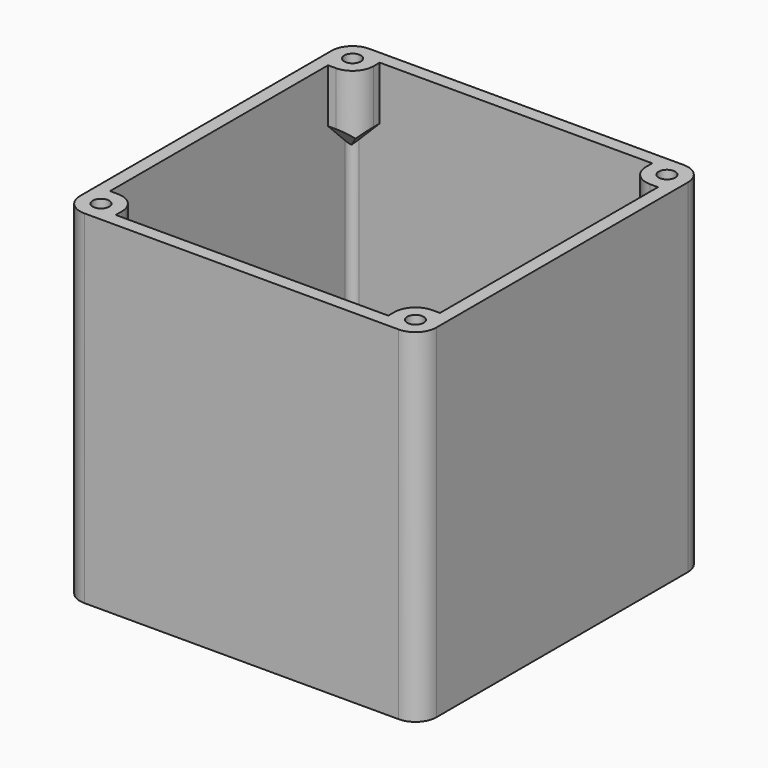
from build123d import *

# Parameters (mm, degrees)
CYLINDER001_R     = 2.4
CYLINDER001_DEPTH = 10
CYLINDER004_R     = 1
CYLINDER004_DEPTH = 5
CYLINDER005_R     = 1
CYLINDER005_DEPTH = 5
CYLINDER003_R     = 1
CYLINDER003_DEPTH = 5
CYLINDER002_R     = 1
CYLINDER002_DEPTH = 5
CYLINDER_R        = 19.4
CYLINDER_DEPTH    = 1.6
BOX004_W          = 5.08
BOX004_H          = 5.08
BOX004_DEPTH      = 10
CHAMFER_SIZE      = 3.5
FILLET002_R       = 2.54
BOX005_W          = 5.08
BOX005_H          = 5.08
BOX005_DEPTH      = 10
CHAMFER001_SIZE   = 3.5
FILLET003_R       = 2.54
BOX003_W          = 5.08
BOX003_H          = 5.08
BOX003_DEPTH      = 10
CHAMFER002_SIZE   = 3.5
FILLET004_R       = 2.54
BOX002_W          = 5.08
BOX002_H          = 5.08
BOX002_DEPTH      = 10
CHAMFER003_SIZE   = 3.5
FILLET001_R       = 2.54
BOX001_W          = 40
BOX001_H          = 40
BOX001_DEPTH      = 41.6
BOX_W             = 43.2
BOX_H             = 43.2
BOX_DEPTH         = 41.6
FILLET_R          = 0.94
FILLET005_R       = 2.54


with BuildPart() as ir:
    # Cylinder001 → Cylinder001 (new body)
    with BuildSketch(Plane(origin=(5.6, 5.6, 0), x_dir=(1, 0, 0), z_dir=(0, 0, 1))):
        Circle(CYLINDER001_R)
    extrude(amount=CYLINDER001_DEPTH)


with BuildPart() as zylinder002:
    # Cylinder004 → Cylinder004 (new body)
    with BuildSketch(Plane(origin=(2.54, 40.66, 36.6), x_dir=(1, 0, 0), z_dir=(0, 0, 1))):
        Circle(CYLINDER004_R)
    extrude(amount=CYLINDER004_DEPTH)


with BuildPart() as zylinder003:
    # Cylinder005 → Cylinder005 (new body)
    with BuildSketch(Plane(origin=(40.66, 40.66, 36.6), x_dir=(1, 0, 0), z_dir=(0, 0, 1))):
        Circle(CYLINDER005_R)
    extrude(amount=CYLINDER005_DEPTH)


with BuildPart() as zylinder001:
    # Cylinder003 → Cylinder003 (new body)
    with BuildSketch(Plane(origin=(40.66, 2.54, 36.6), x_dir=(1, 0, 0), z_dir=(0, 0, 1))):
        Circle(CYLINDER003_R)
    extrude(amount=CYLINDER003_DEPTH)


with BuildPart() as screws:
    # Cylinder002 → Cylinder002 (new body)
    with BuildSketch(Plane(origin=(2.54, 2.54, 36.6), x_dir=(1, 0, 0), z_dir=(0, 0, 1))):
        Circle(CYLINDER002_R)
    extrude(amount=CYLINDER002_DEPTH)

    # Fusion002: union Zylinder002, Zylinder003, Zylinder001
    add(zylinder002.part)
    add(zylinder003.part)
    add(zylinder001.part)


with BuildPart() as speaker:
    # Cylinder → Cylinder (new body)
    with BuildSketch(Plane(origin=(21.6, 21.6, 0), x_dir=(1, 0, 0), z_dir=(0, 0, 1))):
        Circle(CYLINDER_R)
    extrude(amount=CYLINDER_DEPTH)


with BuildPart() as fillet002:
    # Box004 → Box004 (new body)
    with BuildSketch(Plane(origin=(0, 38.12, 31.6), x_dir=(1, 0, 0), z_dir=(0, 0, 1))):
        with Locations((2.54, 2.54)):
            Rectangle(BOX004_W, BOX004_H)
    extrude(amount=BOX004_DEPTH)

    # Chamfer
    chamfer_edges = [fillet002.edges().sort_by_distance(p)[0] for p in [
        (5.08, 40.66, 31.6),
        (2.54, 38.12, 31.6),
    ]]
    chamfer(chamfer_edges, length=CHAMFER_SIZE)

    # Fillet002
    fillet002_edges = [fillet002.edges().sort_by_distance(p)[0] for p in [
        (5.08, 38.12, 38.35),
    ]]
    fillet(fillet002_edges, radius=FILLET002_R)


with BuildPart() as fillet003:
    # Box005 → Box005 (new body)
    with BuildSketch(Plane(origin=(38.12, 38.12, 31.6), x_dir=(1, 0, 0), z_dir=(0, 0, 1))):
        with Locations((2.54, 2.54)):
            Rectangle(BOX005_W, BOX005_H)
    extrude(amount=BOX005_DEPTH)

    # Chamfer001
    chamfer001_edges = [fillet003.edges().sort_by_distance(p)[0] for p in [
        (38.12, 40.66, 31.6),
        (40.66, 38.12, 31.6),
    ]]
    chamfer(chamfer001_edges, length=CHAMFER001_SIZE)

    # Fillet003
    fillet003_edges = [fillet003.edges().sort_by_distance(p)[0] for p in [
        (38.12, 38.12, 38.35),
    ]]
    fillet(fillet003_edges, radius=FILLET003_R)


with BuildPart() as fillet004:
    # Box003 → Box003 (new body)
    with BuildSketch(Plane(origin=(38.12, 0, 31.6), x_dir=(1, 0, 0), z_dir=(0, 0, 1))):
        with Locations((2.54, 2.54)):
            Rectangle(BOX003_W, BOX003_H)
    extrude(amount=BOX003_DEPTH)

    # Chamfer002
    chamfer002_edges = [fillet004.edges().sort_by_distance(p)[0] for p in [
        (38.12, 2.54, 31.6),
        (40.66, 5.08, 31.6),
    ]]
    chamfer(chamfer002_edges, length=CHAMFER002_SIZE)

    # Fillet004
    fillet004_edges = [fillet004.edges().sort_by_distance(p)[0] for p in [
        (38.12, 5.08, 38.35),
    ]]
    fillet(fillet004_edges, radius=FILLET004_R)


with BuildPart() as holder:
    # Box002 → Box002 (new body)
    with BuildSketch(Plane.XY.offset(31.6)):
        with Locations((2.54, 2.54)):
            Rectangle(BOX002_W, BOX002_H)
    extrude(amount=BOX002_DEPTH)

    # Chamfer003
    chamfer003_edges = [holder.edges().sort_by_distance(p)[0] for p in [
        (5.08, 2.54, 31.6),
        (2.54, 5.08, 31.6),
    ]]
    chamfer(chamfer003_edges, length=CHAMFER003_SIZE)

    # Fillet001
    fillet001_edges = [holder.edges().sort_by_distance(p)[0] for p in [
        (5.08, 5.08, 38.35),
    ]]
    fillet(fillet001_edges, radius=FILLET001_R)

    # Fusion: union Fillet002, Fillet003, Fillet004
    add(fillet002.part)
    add(fillet003.part)
    add(fillet004.part)


with BuildPart() as obj1:
    # Box001 → Box001 (new body)
    with BuildSketch(Plane(origin=(1.6, 1.6, 1.6), x_dir=(1, 0, 0), z_dir=(0, 0, 1))):
        with Locations((20, 20)):
            Rectangle(BOX001_W, BOX001_H)
    extrude(amount=BOX001_DEPTH)


with BuildPart() as cut003:
    # Box → Box (new body)
    with BuildSketch(Plane.XY):
        with Locations((21.6, 21.6)):
            Rectangle(BOX_W, BOX_H)
    extrude(amount=BOX_DEPTH)

    # Cut: cut obj1
    add(obj1.part, mode=Mode.SUBTRACT)

    # Fillet
    fillet_edges = [cut003.edges().sort_by_distance(p)[0] for p in [
        (41.6, 1.6, 21.6),
        (41.6, 41.6, 21.6),
        (1.6, 41.6, 21.6),
        (1.6, 1.6, 21.6),
    ]]
    fillet(fillet_edges, radius=FILLET_R)

    # Fusion001: union Holder
    add(holder.part)

    # Fillet005
    fillet005_edges = [cut003.edges().sort_by_distance(p)[0] for p in [
        (0, 0, 15.8),
        (0, 43.2, 15.8),
        (43.2, 43.2, 15.8),
        (43.2, 0, 15.8),
        (0, 0, 36.6),
        (0, 43.2, 36.6),
        (43.2, 43.2, 36.6),
        (43.2, 0, 36.6),
    ]]
    fillet(fillet005_edges, radius=FILLET005_R)

    # Cut001: cut Speaker
    add(speaker.part, mode=Mode.SUBTRACT)

    # Cut002: cut Screws
    add(screws.part, mode=Mode.SUBTRACT)

    # Cut003: cut IR
    add(ir.part, mode=Mode.SUBTRACT)


solid = cut003.part
